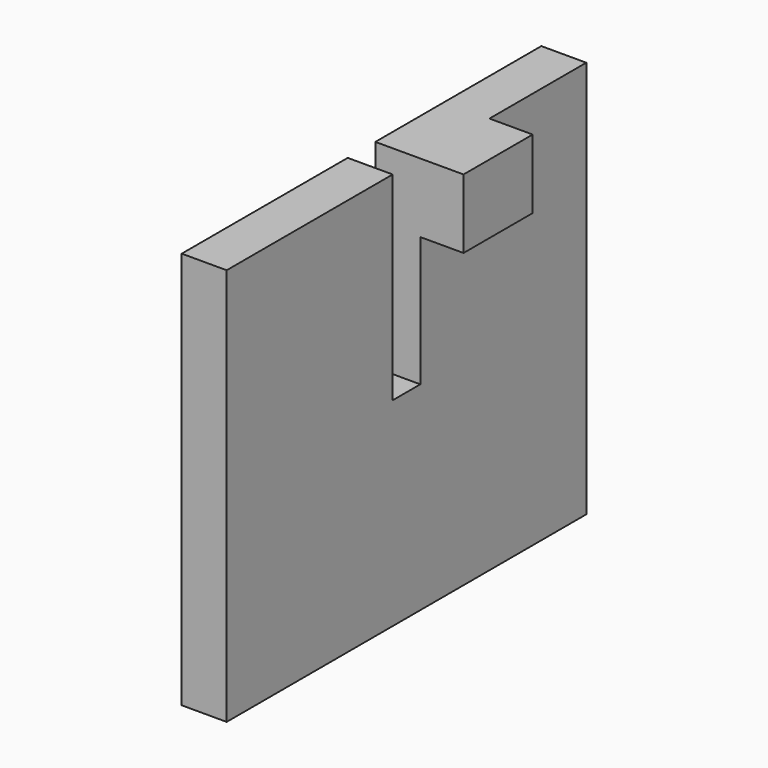
from build123d import *

# Parameters (mm, degrees)
F0_W     = 260
F0_H     = 230
F1_DEPTH = 26
F2_W     = 20
F2_H     = 115
F3_DEPTH = 30
F4_W     = 25
F4_H     = 50
F5_DEPTH = 40


with BuildPart() as f1:
    # F0 (on Right) → F1 (new body)
    with BuildSketch(Plane.YZ):
        Rectangle(F0_W, F0_H)
    extrude(amount=F1_DEPTH)

    # F2 (on face) → F3 (cut)
    with BuildSketch(Plane.YZ.offset(26)):
        with Locations((0, 57.5)):
            Rectangle(F2_W, F2_H)
    extrude(amount=-F3_DEPTH, mode=Mode.SUBTRACT)

    # F4 (on face) → F5 (join)
    with BuildSketch(Plane.XY.offset(115)):
        with Locations((38.5, 35)):
            Rectangle(F4_W, F4_H)
    extrude(amount=-F5_DEPTH)


solid = f1.part
